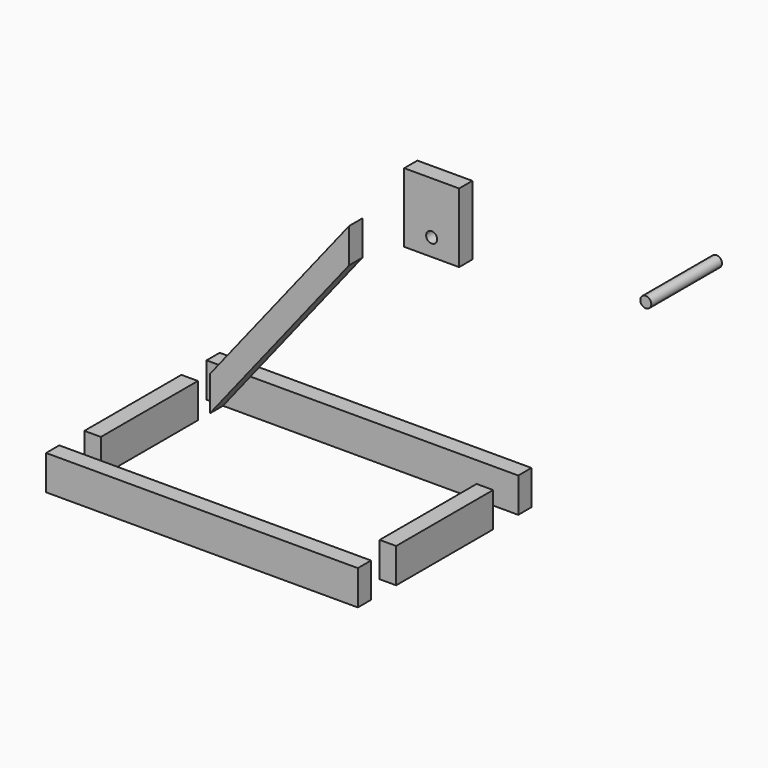
from build123d import *

# Parameters (mm, degrees)
F1_W     = 180
F1_H     = 9.525
F2_DEPTH = 20
F1_W_2   = 9.525
F1_H_2   = 70
F4_DEPTH = 9.525
F6_W     = 31.7202090866
F6_H     = 40
F6_R     = 3.175
F7_DEPTH = 9.525
F8_R     = 3.175
F9_DEPTH = 51


with BuildPart() as f2:
    # F1 (on Top) → F2 (new body)
    with BuildSketch(Plane.XY):
        with Locations((0, 57.8950265765)):
            Rectangle(F1_W, F1_H)
    extrude(amount=F2_DEPTH)


with BuildPart() as f2b:
    # F1 (on Top) → F2, piece 2 (new body)
    with BuildSketch(Plane.XY):
        with Locations((-85.2375, 0)):
            Rectangle(F1_W_2, F1_H_2)
    extrude(amount=F2_DEPTH)


with BuildPart() as f2c:
    # F1 (on Top) → F2, piece 3 (new body)
    with BuildSketch(Plane.XY):
        with Locations((0, -57.8950265765)):
            Rectangle(F1_W, F1_H)
    extrude(amount=F2_DEPTH)


with BuildPart() as f2d:
    # F1 (on Top) → F2, piece 4 (new body)
    with BuildSketch(Plane.XY):
        with Locations((85.2375, 0)):
            Rectangle(F1_W_2, F1_H_2)
    extrude(amount=F2_DEPTH)


with BuildPart() as f4:
    # F3 (on face) → F4 (new body)
    with BuildSketch(Plane.XZ.offset(-53.1325265765)):
        Polygon((0, 121.4810460806), (-80.475, 20), (-80.475, 0), (0, 101.4810460806), align=None)
    extrude(amount=F4_DEPTH)


with BuildPart() as f7:
    # F6 (on offset) → F7 (new body)
    with BuildSketch(Plane(origin=(0, 103.1325265765, 0), x_dir=(-1, 0, 0), z_dir=(0, 1, 0))):
        with Locations((0, 101.4810460806)):
            Rectangle(F6_W, F6_H)
        with Locations((0, 91.4810460806)):
            Circle(F6_R, mode=Mode.SUBTRACT)
    extrude(amount=F7_DEPTH)


with BuildPart() as f9:
    # F8 (on offset) → F9 (new body)
    with BuildSketch(Plane(origin=(0, 103.1325265765, 0), x_dir=(-1, 0, 0), z_dir=(0, 1, 0))):
        with Locations((-123.6248090863, 98.7548306584)):
            Circle(F8_R)
    extrude(amount=F9_DEPTH)


with BuildPart() as f10_1:
    # F10: instance of F4
    add(f4.part.mirror(Plane(origin=(0, 48.3700265765, 111.4810460806), x_dir=(0, 1, 0), z_dir=(1, 0, 0))))


solid = Compound([f2.part, f2b.part, f2c.part, f2d.part, f4.part, f7.part, f9.part])
